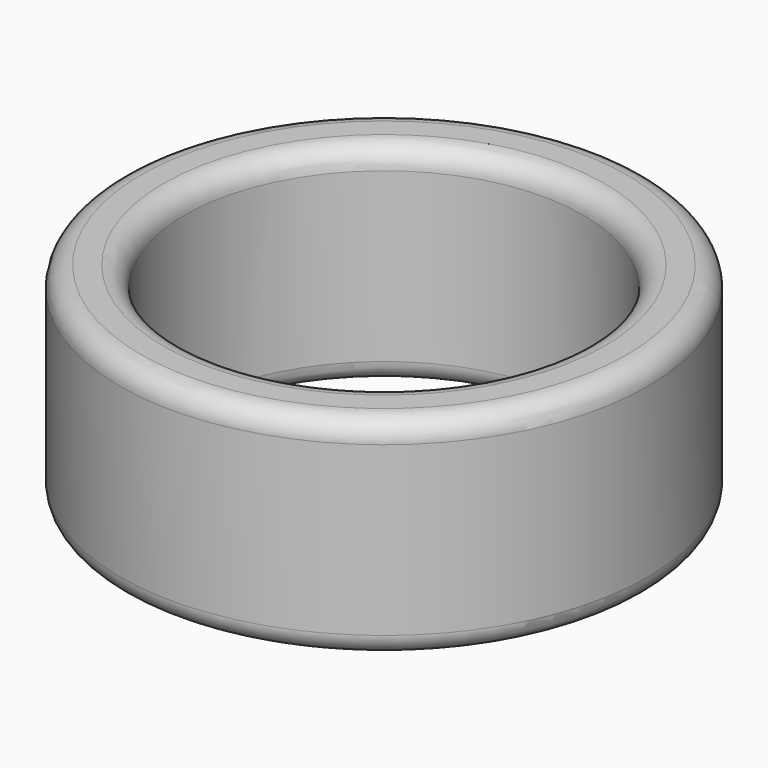
from build123d import *

# Parameters (mm, degrees)
F0_R     = 31.964339
F1_DEPTH = 25.4
F2_R     = 24.135633
F3_DEPTH = 25.401
F4_R     = 2.54


with BuildPart() as f1:
    # F0 (on Top) → F1 (new body)
    with BuildSketch(Plane.XY):
        with Locations((-24.393266, 20.656416)):
            Circle(F0_R)
    extrude(amount=F1_DEPTH)

    # F2 (on face) → F3 (cut, through all)
    with BuildSketch(Plane.XY.offset(25.4)):
        with Locations((-24.393266, 20.656416)):
            Circle(F2_R)
    extrude(amount=-F3_DEPTH, mode=Mode.SUBTRACT)

    # F4
    f4_edges = [f1.edges().sort_by_distance(p)[0] for p in [
        (-56.357605, 20.656416, 25.4),
        (-56.357605, 20.656416, 0),
        (7.571073, 20.656416, 12.7),
        (-48.528899, 20.656416, 25.4),
        (-48.528899, 20.656416, 0),
    ]]
    fillet(f4_edges, radius=F4_R)


solid = f1.part
